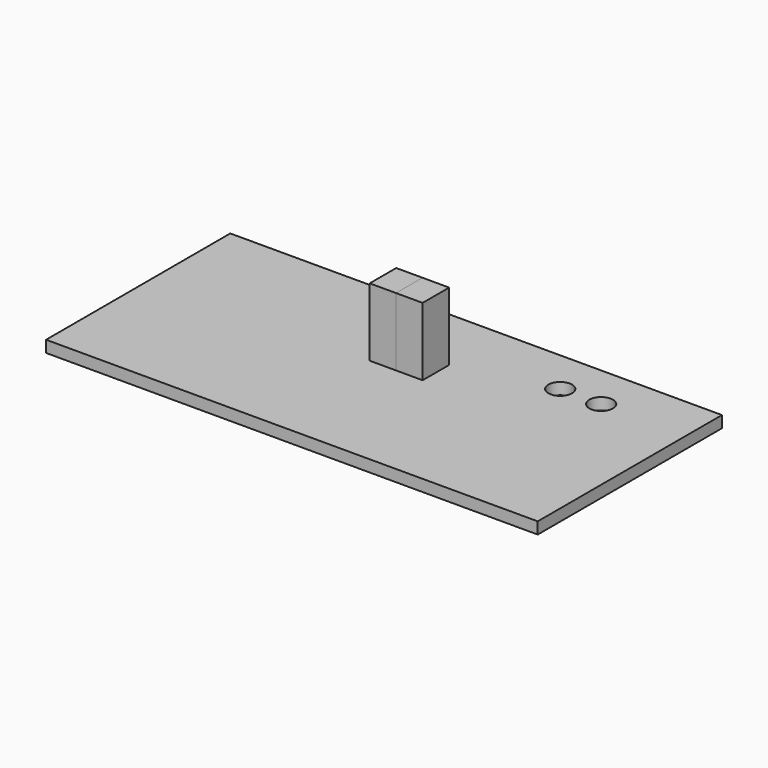
from build123d import *

# Parameters (mm, degrees)
F0_W      = 203.408972
F0_H      = 4.820996
F1_DEPTH  = 95.25
F2_W      = 13.721295
F2_H      = 30.594785
F3_DEPTH  = 11
F3_FACE_W = 13.721294
F3_FACE_H = 28.184286
F4_DEPTH  = 10.9
F5_R      = 4.891712
F6_DEPTH  = 4.821996


with BuildPart() as f1:
    # F0 (on Front) → F1 (new body)
    with BuildSketch(Plane.XZ):
        Rectangle(F0_W, F0_H)
    extrude(amount=-F1_DEPTH)

    # F2 (on Right) → F3 (join)
    with BuildSketch(Plane.YZ):
        with Locations((60.701731, 15.297392)):
            Rectangle(F2_W, F2_H)
    extrude(amount=F3_DEPTH)

    # F3_face (on face) → F4 (join)
    with BuildSketch(Plane(origin=(0, 60.701732, 16.502641), x_dir=(0, 1, 0), z_dir=(-1, 0, 0))):
        Rectangle(F3_FACE_W, F3_FACE_H)
    extrude(amount=F4_DEPTH)

    # F5 (on face) → F6 (cut, through all)
    with BuildSketch(Plane.XY.offset(2.410498)):
        with Locations((66.436283, 76.876432)):
            Circle(F5_R)
        with Locations((49.508363, 76.876432)):
            Circle(F5_R)
    extrude(amount=-F6_DEPTH, mode=Mode.SUBTRACT)


solid = f1.part
